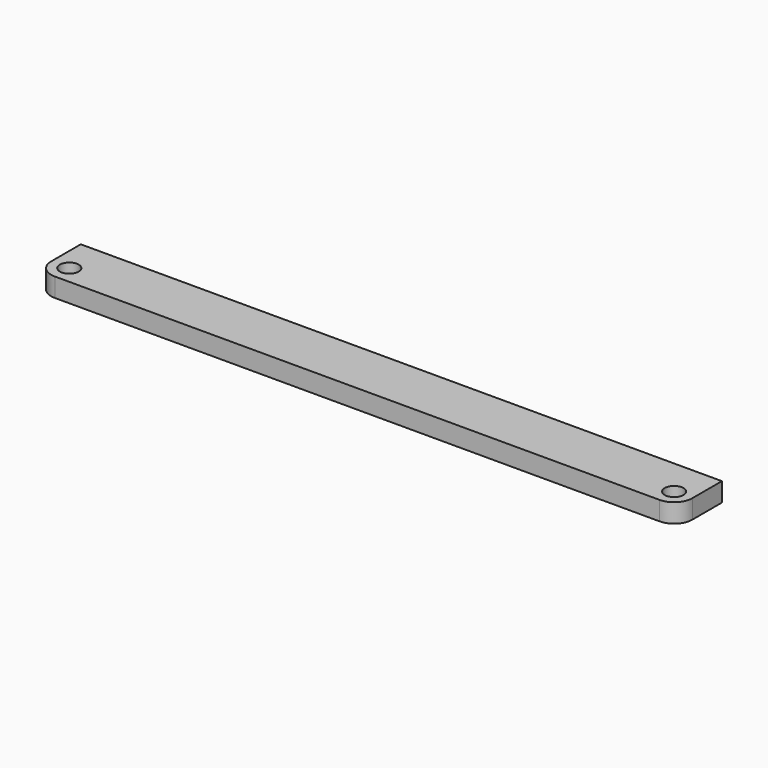
from build123d import *

# Parameters (mm, degrees)
F1_DEPTH = 5.08
F2_R     = 2.54
F3_DEPTH = 5.081


with BuildPart() as f1:
    # F0 (on Top) → F1 (new body)
    with BuildSketch(Plane.XY):
        with BuildLine():
            Line((86.1568, 15.0368), (-86.1568, 15.0368))
            Line((-86.1568, 15.0368), (-86.1568, 5.08))
            ThreePointArc((-86.1568, 5.08), (-84.728418, 1.631582), (-81.28, 0.2032))
            Line((-81.28, 0.2032), (81.28, 0.2032))
            ThreePointArc((81.28, 0.2032), (84.728418, 1.631582), (86.1568, 5.08))
            Line((86.1568, 5.08), (86.1568, 15.0368))
        make_face()
    extrude(amount=F1_DEPTH)

    # F2 (on face) → F3 (cut, through all)
    with BuildSketch(Plane.XY.offset(5.08)):
        with Locations((-81.28, 5.08)):
            Circle(F2_R)
        with Locations((81.28, 5.08)):
            Circle(F2_R)
    extrude(amount=-F3_DEPTH, mode=Mode.SUBTRACT)


solid = f1.part
